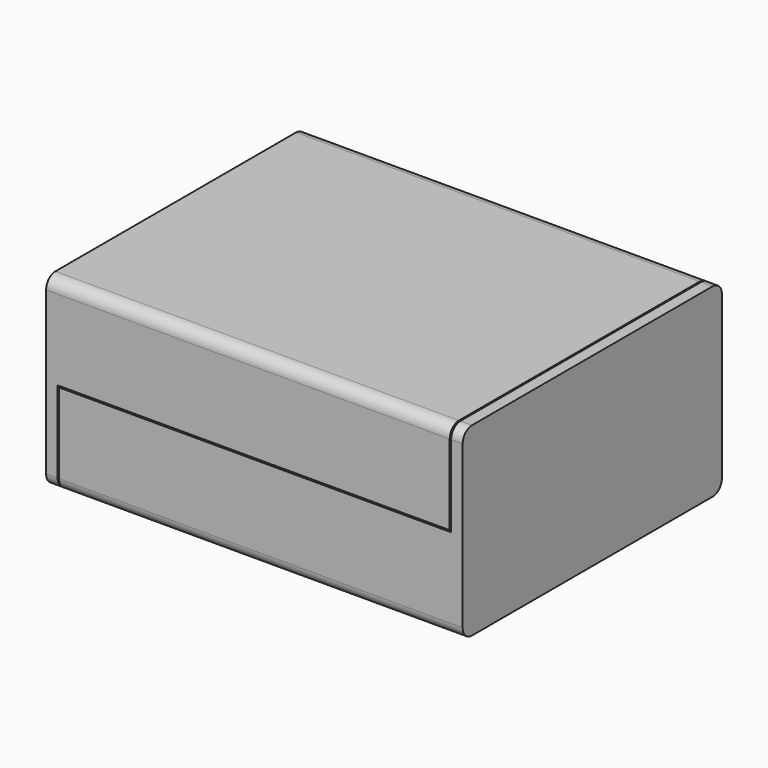
from build123d import *

# Parameters (mm, degrees)
F5_DEPTH      = 42.2
F5_DEPTH_BACK = 42.5
F6_DEPTH      = 42.2
F6_DEPTH_BACK = 42.5
F7_W          = 70
F7_H          = 40
F8_DEPTH      = 2.5
F9_W          = 70
F9_H          = 40
F10_DEPTH     = 2.5
F12_DEPTH     = 2
F14_DEPTH     = 2
F15_R         = 2.5
F15_2_R       = 2.5
F16_R         = 1.25
F16_2_R       = 1.25


with BuildPart() as f5:
    # F4 (on face) → F5 (new body, two sides)
    with BuildSketch(Plane.YZ) as f5_sk:
        Polygon((-35, 20), (-35, 0.15), (-30.2, 0.15), (-30.2, -2.45), (-32.2, -2.45), (-32.2, -4.45), (-28.2, -4.45), (-28.2, 2.15), (-32.5, 2.15), (-32.5, 17.5), (32.5, 17.5), (32.5, 2.15), (28.2, 2.15), (28.2, -4.45), (32.2, -4.45), (32.2, -2.45), (30.2, -2.45), (30.2, 0.15), (35, 0.15), (35, 20), align=None)
    extrude(amount=F5_DEPTH)
    extrude(f5_sk.sketch, amount=-F5_DEPTH_BACK)

    # F7 (on face) → F8 (join, through all)
    with BuildSketch(Plane(origin=(-42.5, 0, 0), x_dir=(0, -1, 0), z_dir=(-1, 0, 0))):
        Rectangle(F7_W, F7_H)
    extrude(amount=F8_DEPTH)

    # F11 (on face) → F12 (join)
    with BuildSketch(Plane.YZ.offset(-42.5)):
        Polygon((-28.2, -4.45), (-32.2, -4.45), (-32.2, -17.2), (32.2, -17.2), (32.2, -4.45), (28.2, -4.45), (28.2, 2.15), (32.5, 2.15), (32.5, 17.5), (-32.5, 17.5), (-32.5, 2.15), (-28.2, 2.15), align=None)
    extrude(amount=F12_DEPTH)

    # F15
    f15_edges = [f5.edges().sort_by_distance(p)[0] for p in [
        (-1.4, -35, 20),
        (-1.4, 35, 20),
        (-43.75, -35, -20),
        (-43.75, 35, -20),
    ]]
    fillet(f15_edges, radius=F15_R)

    # F16
    f16_edges = [f5.edges().sort_by_distance(p)[0] for p in [
        (-41.5, -32.2, -17.2),
        (-41.5, 32.2, -17.2),
        (0.85, -32.5, 17.5),
        (0.85, 32.5, 17.5),
    ]]
    fillet(f16_edges, radius=F16_R)


with BuildPart() as f6:
    # F4 (on face) → F6 (new body, two sides)
    with BuildSketch(Plane.YZ) as f6_sk:
        Polygon((-30.5, -0.15), (-35, -0.15), (-35, -20), (35, -20), (35, -0.15), (30.5, -0.15), (30.5, -2.15), (32.5, -2.15), (32.5, -17.5), (-32.5, -17.5), (-32.5, -2.15), (-30.5, -2.15), align=None)
    extrude(amount=-F6_DEPTH)
    extrude(f6_sk.sketch, amount=F6_DEPTH_BACK)

    # F9 (on face) → F10 (join, through all)
    with BuildSketch(Plane.YZ.offset(42.5)):
        Rectangle(F9_W, F9_H)
    extrude(amount=F10_DEPTH)

    # F13 (on face) → F14 (join)
    with BuildSketch(Plane(origin=(42.5, 0, 0), x_dir=(0, -1, 0), z_dir=(-1, 0, 0))):
        Polygon((32.2, 17.2), (-32.2, 17.2), (-32.2, 2.45), (-27.9, 2.45), (-27.9, -4.75), (-32.5, -4.75), (-32.5, -17.5), (32.5, -17.5), (32.5, -4.75), (27.9, -4.75), (27.9, 2.45), (32.2, 2.45), align=None)
    extrude(amount=F14_DEPTH)

    # F15#2
    f15_2_edges = [f6.edges().sort_by_distance(p)[0] for p in [
        (1.4, -35, -20),
        (43.75, -35, 20),
        (43.75, 35, 20),
        (1.4, 35, -20),
    ]]
    fillet(f15_2_edges, radius=F15_2_R)

    # F16#2
    f16_2_edges = [f6.edges().sort_by_distance(p)[0] for p in [
        (-0.85, -32.5, -17.5),
        (-0.85, 32.5, -17.5),
        (41.5, 32.2, 17.2),
        (41.5, -32.2, 17.2),
    ]]
    fillet(f16_2_edges, radius=F16_2_R)


solid = Compound([f5.part, f6.part])
